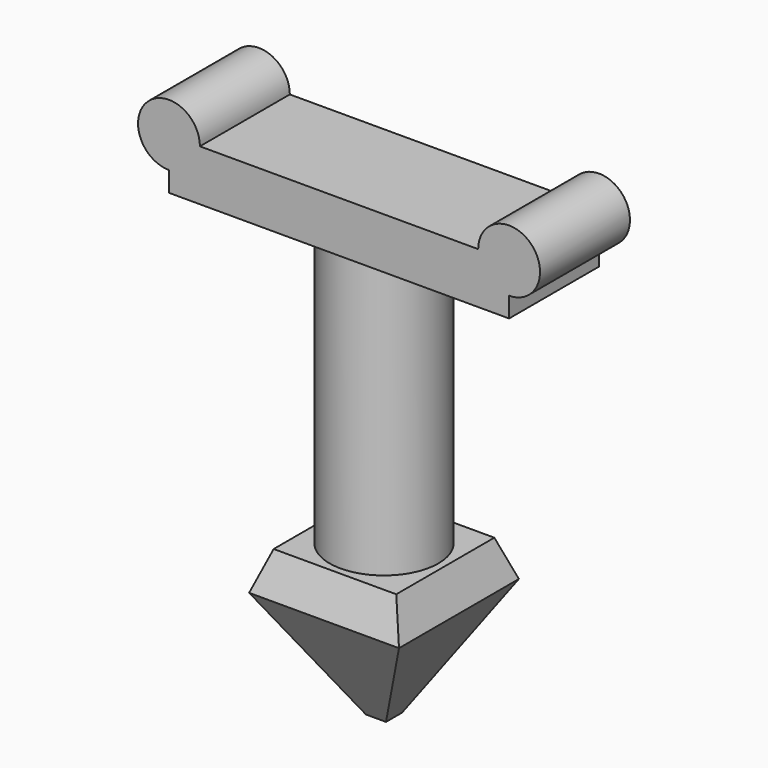
from build123d import *

# Parameters (mm, degrees)
F0_W      = 50.8
F0_H      = 50.8
F1_DEPTH  = 38.1
F1_TAPER  = 30
F1_FACE_W = 50.8
F1_FACE_H = 50.8
F2_DEPTH  = 12.7
F2_TAPER  = 20
F3_R      = 18.4397946344
F4_DEPTH  = 101.6
F6_DEPTH  = 19.05
F7_DEPTH  = 19.05


with BuildPart() as f1:
    # F0 (on Top) → F1 (new body)
    with BuildSketch(Plane.XY):
        Rectangle(F0_W, F0_H)
    extrude(amount=-F1_DEPTH, taper=F1_TAPER)

    # F1_face (on face) → F2 (join)
    with BuildSketch(Plane.XY):
        Rectangle(F1_FACE_W, F1_FACE_H)
    extrude(amount=F2_DEPTH, taper=F2_TAPER)

    # F3 (on face) → F4 (join)
    with BuildSketch(Plane.XY.offset(12.7)):
        Circle(F3_R)
    extrude(amount=F4_DEPTH)

    # F5 (on Front) → F6 (join, symmetric)
    with BuildSketch(Plane.XZ):
        with BuildLine():
            Line((47.1632888286, 123.5673576593), (-47.1632888286, 123.5673576593))
            ThreePointArc((-47.1632888286, 123.5673576593), (-65.0582543601, 130.9796950807), (-57.6459169388, 113.0847295492))
            Line((-57.6459169388, 113.0847295492), (-57.6459169388, 106.2794923782))
            Line((-57.6459169388, 106.2794923782), (57.6459169388, 106.2794923782))
            Line((57.6459169388, 106.2794923782), (57.6459169388, 113.0847295492))
            ThreePointArc((57.6459169388, 113.0847295492), (65.0582543601, 130.9796950807), (47.1632888286, 123.5673576593))
        make_face()
    extrude(amount=F6_DEPTH, both=True)

    # F5 (on Front) → F7 (join, symmetric)
    with BuildSketch(Plane.XZ):
        with BuildLine():
            Line((47.1632888286, 123.5673576593), (-47.1632888286, 123.5673576593))
            ThreePointArc((-47.1632888286, 123.5673576593), (-65.0582543601, 130.9796950807), (-57.6459169388, 113.0847295492))
            Line((-57.6459169388, 113.0847295492), (-57.6459169388, 106.2794923782))
            Line((-57.6459169388, 106.2794923782), (57.6459169388, 106.2794923782))
            Line((57.6459169388, 106.2794923782), (57.6459169388, 113.0847295492))
            ThreePointArc((57.6459169388, 113.0847295492), (65.0582543601, 130.9796950807), (47.1632888286, 123.5673576593))
        make_face()
    extrude(amount=F7_DEPTH, both=True)


solid = f1.part
